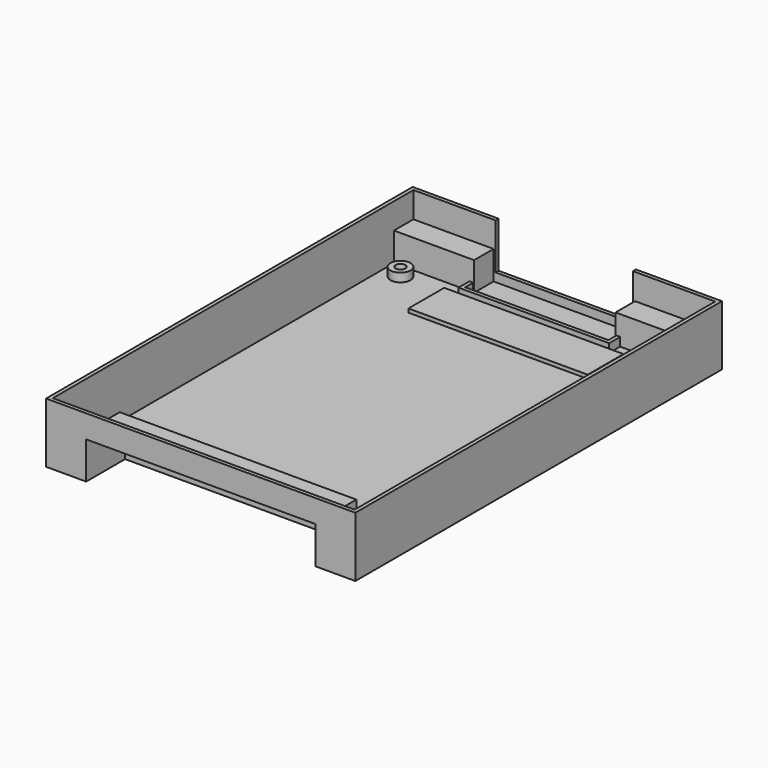
from build123d import *

# Parameters (mm, degrees)
BOX015_W          = 28
BOX015_H          = 8.5
BOX015_DEPTH      = 10
BOX016_W          = 28
BOX016_H          = 8.5
BOX016_DEPTH      = 10
BOX014_W          = 50
BOX014_H          = 12
BOX014_DEPTH      = 3
BOX013_W          = 52.6
BOX013_H          = 14.6
BOX013_DEPTH      = 3
CYLINDER006_R     = 2.6
CYLINDER006_DEPTH = 1.5
CYLINDER005_R     = 1.7
CYLINDER005_DEPTH = 5
CYLINDER_R        = 3.5
CYLINDER_DEPTH    = 5
CYLINDER001_R     = 3.5
CYLINDER001_DEPTH = 5
CYLINDER002_R     = 3.5
CYLINDER002_DEPTH = 5
CYLINDER003_R     = 3.5
CYLINDER003_DEPTH = 5
BOX012_W          = 48
BOX012_H          = 1.3
BOX012_DEPTH      = 16
BOX008_W          = 60
BOX008_H          = 13
BOX008_DEPTH      = 1.6
BOX002_W          = 80
BOX002_H          = 17
BOX002_DEPTH      = 13
BOX001_W          = 105.4
BOX001_H          = 157.4
BOX001_DEPTH      = 19
BOX_W             = 108
BOX_H             = 160
BOX_DEPTH         = 21
BOX007_W          = 55
BOX007_H          = 4.5
BOX007_DEPTH      = 2
BOX006_W          = 82.6
BOX006_H          = 2
BOX006_DEPTH      = 7.4
BOX005_W          = 80
BOX005_H          = 14
BOX005_DEPTH      = 8
BOX004_W          = 80
BOX004_H          = 17
BOX004_DEPTH      = 5
BOX003_W          = 82.6
BOX003_H          = 18.3
BOX003_DEPTH      = 14.3
BOX009_W          = 62.6
BOX009_H          = 15.6
BOX009_DEPTH      = 1.7


with BuildPart() as board_pusher_left:
    # Box015 → Box015 (new body)
    with BuildSketch(Plane(origin=(1.3, 150.2, 2), x_dir=(1, 0, 0), z_dir=(0, 0, 1))):
        with Locations((14, 4.25)):
            Rectangle(BOX015_W, BOX015_H)
    extrude(amount=BOX015_DEPTH)


with BuildPart() as board_pusher_right:
    # Box016 → Box016 (new body)
    with BuildSketch(Plane(origin=(78.7, 150.2, 2), x_dir=(1, 0, 0), z_dir=(0, 0, 1))):
        with Locations((14, 4.25)):
            Rectangle(BOX016_W, BOX016_H)
    extrude(amount=BOX016_DEPTH)


with BuildPart() as board_support_inner:
    # Box014 → Box014 (new body)
    with BuildSketch(Plane(origin=(29, 146.7, 2), x_dir=(1, 0, 0), z_dir=(0, 0, 1))):
        with Locations((25, 6)):
            Rectangle(BOX014_W, BOX014_H)
    extrude(amount=BOX014_DEPTH)


with BuildPart() as board_support:
    # Box013 → Box013 (new body)
    with BuildSketch(Plane(origin=(27.7, 145.4, 2), x_dir=(1, 0, 0), z_dir=(0, 0, 1))):
        with Locations((26.3, 7.3)):
            Rectangle(BOX013_W, BOX013_H)
    extrude(amount=BOX013_DEPTH)

    # Cut008: cut Board support inner
    add(board_support_inner.part, mode=Mode.SUBTRACT)


with BuildPart() as bottom_hole:
    # Cylinder006 → Cylinder006 (new body)
    with BuildSketch(Plane(origin=(7.65, 145.14, 0), x_dir=(1, 0, 0), z_dir=(0, 0, 1))):
        Circle(CYLINDER006_R)
    extrude(amount=CYLINDER006_DEPTH)


with BuildPart() as hole1:
    # Cylinder005 → Cylinder005 (new body)
    with BuildSketch(Plane(origin=(7.65, 145.14, 0), x_dir=(1, 0, 0), z_dir=(0, 0, 1))):
        Circle(CYLINDER005_R)
    extrude(amount=CYLINDER005_DEPTH)

    # Fusion003: union Bottom hole
    add(bottom_hole.part)


with BuildPart() as hole2:
    # Clone base: copy of Hole1
    add(hole1.part)


with BuildPart() as hole2_1:
    # Clone placement: moved
    add(hole2.part.moved(Location((92.7, 0, 0))))


with BuildPart() as hole3:
    # Clone001 base: copy of Hole2
    add(hole2_1.part)


with BuildPart() as hole3_1:
    # Clone001 placement: moved
    add(hole3.part.moved(Location((-92.7, -123.19, 0))))


with BuildPart() as hole4:
    # Clone002 base: copy of Hole3
    add(hole3_1.part)


with BuildPart() as hole4_1:
    # Clone002 placement: moved
    add(hole4.part.moved(Location((92.7, 0, 0))))


with BuildPart() as holes:
    # Fusion004 base: copy of Hole1
    add(hole1.part)

    # Fusion004: union Hole4, Hole3, Hole2
    add(hole4_1.part)
    add(hole3_1.part)
    add(hole2_1.part)


with BuildPart() as cylinder:
    # Cylinder → Cylinder (new body)
    with BuildSketch(Plane(origin=(7.65, 145.14, 0), x_dir=(1, 0, 0), z_dir=(0, 0, 1))):
        Circle(CYLINDER_R)
    extrude(amount=CYLINDER_DEPTH)


with BuildPart() as cylinder001:
    # Cylinder001 → Cylinder001 (new body)
    with BuildSketch(Plane(origin=(100.35, 145.14, 0), x_dir=(1, 0, 0), z_dir=(0, 0, 1))):
        Circle(CYLINDER001_R)
    extrude(amount=CYLINDER001_DEPTH)


with BuildPart() as cylinder002:
    # Cylinder002 → Cylinder002 (new body)
    with BuildSketch(Plane(origin=(7.65, 21.95, 0), x_dir=(1, 0, 0), z_dir=(0, 0, 1))):
        Circle(CYLINDER002_R)
    extrude(amount=CYLINDER002_DEPTH)


with BuildPart() as cylinder003:
    # Cylinder003 → Cylinder003 (new body)
    with BuildSketch(Plane(origin=(100.35, 21.95, 0), x_dir=(1, 0, 0), z_dir=(0, 0, 1))):
        Circle(CYLINDER003_R)
    extrude(amount=CYLINDER003_DEPTH)


with BuildPart() as obj1:
    # Box012 → Box012 (new body)
    with BuildSketch(Plane(origin=(30, 158.7, 5), x_dir=(1, 0, 0), z_dir=(0, 0, 1))):
        with Locations((24, 0.65)):
            Rectangle(BOX012_W, BOX012_H)
    extrude(amount=BOX012_DEPTH)


with BuildPart() as bottom_cutout:
    # Box008 → Box008 (new body)
    with BuildSketch(Plane(origin=(24, 131.1, 0), x_dir=(1, 0, 0), z_dir=(0, 0, 1))):
        with Locations((30, 6.5)):
            Rectangle(BOX008_W, BOX008_H)
    extrude(amount=BOX008_DEPTH)


with BuildPart() as cube002:
    # Box002 → Box002 (new body)
    with BuildSketch(Plane(origin=(14, 0, 0), x_dir=(1, 0, 0), z_dir=(0, 0, 1))):
        with Locations((40, 8.5)):
            Rectangle(BOX002_W, BOX002_H)
    extrude(amount=BOX002_DEPTH)


with BuildPart() as cube001:
    # Box001 → Box001 (new body)
    with BuildSketch(Plane(origin=(1.3, 1.3, 2), x_dir=(1, 0, 0), z_dir=(0, 0, 1))):
        with Locations((52.7, 78.7)):
            Rectangle(BOX001_W, BOX001_H)
    extrude(amount=BOX001_DEPTH)


with BuildPart() as obj2:
    # Box → Box (new body)
    with BuildSketch(Plane.XY):
        with Locations((54, 80)):
            Rectangle(BOX_W, BOX_H)
    extrude(amount=BOX_DEPTH)

    # Cut: cut Cube001
    add(cube001.part, mode=Mode.SUBTRACT)

    # Cut001: cut Cube002
    add(cube002.part, mode=Mode.SUBTRACT)


with BuildPart() as board_carve:
    # Box007 → Box007 (new body)
    with BuildSketch(Plane(origin=(26.5, 14, 5), x_dir=(1, 0, 0), z_dir=(0, 0, 1))):
        with Locations((27.5, 2.25)):
            Rectangle(BOX007_W, BOX007_H)
    extrude(amount=BOX007_DEPTH)


with BuildPart() as obj3:
    # Box006 → Box006 (new body)
    with BuildSketch(Plane(origin=(12.7, 16.3, 6.9), x_dir=(1, 0, 0), z_dir=(0, 0, 1))):
        with Locations((41.3, 1)):
            Rectangle(BOX006_W, BOX006_H)
    extrude(amount=BOX006_DEPTH)


with BuildPart() as obj4:
    # Box005 → Box005 (new body)
    with BuildSketch(Plane(origin=(14, 0, 5), x_dir=(1, 0, 0), z_dir=(0, 0, 1))):
        with Locations((40, 7)):
            Rectangle(BOX005_W, BOX005_H)
    extrude(amount=BOX005_DEPTH)


with BuildPart() as obj5:
    # Box004 → Box004 (new body)
    with BuildSketch(Plane(origin=(14, 0, 0), x_dir=(1, 0, 0), z_dir=(0, 0, 1))):
        with Locations((40, 8.5)):
            Rectangle(BOX004_W, BOX004_H)
    extrude(amount=BOX004_DEPTH)


with BuildPart() as board_with_holes:
    # Box003 → Box003 (new body)
    with BuildSketch(Plane(origin=(12.7, 0, 0), x_dir=(1, 0, 0), z_dir=(0, 0, 1))):
        with Locations((41.3, 9.15)):
            Rectangle(BOX003_W, BOX003_H)
    extrude(amount=BOX003_DEPTH)

    # Cut002: cut obj5
    add(obj5.part, mode=Mode.SUBTRACT)

    # Cut003: cut obj4
    add(obj4.part, mode=Mode.SUBTRACT)

    # Cut004: cut obj3
    add(obj3.part, mode=Mode.SUBTRACT)

    # Cut005: cut Board carve
    add(board_carve.part, mode=Mode.SUBTRACT)

    # Fusion: union obj2
    add(obj2.part)

    # Cut006: cut Bottom cutout
    add(bottom_cutout.part, mode=Mode.SUBTRACT)

    # Cut007: cut obj1
    add(obj1.part, mode=Mode.SUBTRACT)

    # Fusion002: union Cylinder, Cylinder001, Cylinder002, Cylinder003
    add(cylinder.part)
    add(cylinder001.part)
    add(cylinder002.part)
    add(cylinder003.part)

    # Cut009: cut Holes
    add(holes.part, mode=Mode.SUBTRACT)


with BuildPart() as all_case_parts:
    # Box009 → Box009 (new body)
    with BuildSketch(Plane(origin=(22.7, 129.8, 1.6), x_dir=(1, 0, 0), z_dir=(0, 0, 1))):
        with Locations((31.3, 7.8)):
            Rectangle(BOX009_W, BOX009_H)
    extrude(amount=BOX009_DEPTH)

    # Fusion005: union Board pusher left, Board pusher right, Board Support, Board with holes
    add(board_pusher_left.part)
    add(board_pusher_right.part)
    add(board_support.part)
    add(board_with_holes.part)


solid = all_case_parts.part
